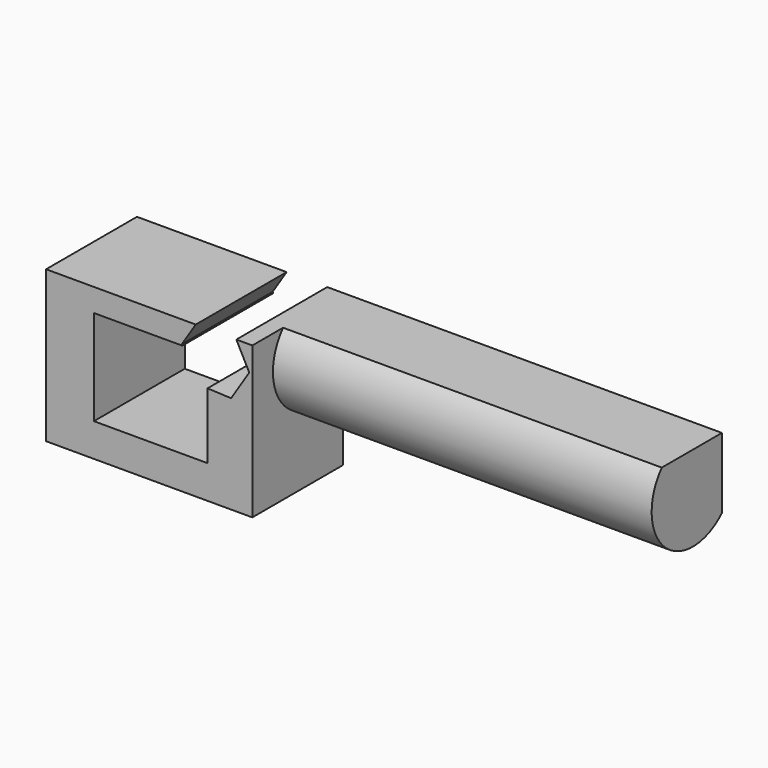
from build123d import *

# Parameters (mm, degrees)
F0_W     = 138.3417099714
F0_H     = 101.5456728637
F1_DEPTH = 76.2
F2_W     = 76.2257091701
F2_H     = 63.8742726296
F3_DEPTH = 101.6
F5_DEPTH = 254
F7_DEPTH = 101.6


with BuildPart() as f1:
    # F0 (on Front) → F1 (new body)
    with BuildSketch(Plane.XZ):
        with Locations((0.7131025195, -0.7131006569)):
            Rectangle(F0_W, F0_H)
    extrude(amount=F1_DEPTH)

    # F2 (on face) → F3 (cut)
    with BuildSketch(Plane.XZ.offset(76.2)):
        with Locations((1.7188172787, 2.7152718976)):
            Rectangle(F2_W, F2_H)
    extrude(amount=-F3_DEPTH, mode=Mode.SUBTRACT)

    # F4 (on face) → F5 (join)
    with BuildSketch(Plane.YZ.offset(69.8839575052)):
        with BuildLine():
            Line((0, 50.059735775), (-50.4431385903, 50.059735775))
            ThreePointArc((-50.4431385903, 50.059735775), (-47.9958991329, 2.1220411863), (0, 2.7586021562))
            Line((0, 2.7586021562), (0, 50.059735775))
        make_face()
    extrude(amount=F5_DEPTH)

    # F6 (on face) → F7 (cut)
    with BuildSketch(Plane.XZ.offset(76.2)):
        Polygon((31.9183138803, 50.059735775), (59.1486387648, 50.059735775), (57.3735188693, 53.4748122682), (34.7362639383, 54.4770613606), align=None)
        Polygon((55.6375725195, 14.2659365838), (67.8241731599, 33.3692498798), (59.1486387648, 50.059735775), (31.9183138803, 50.059735775), (22.5496632978, 35.3737480645), (22.9246079661, 34.6524082124), (39.8316718638, 34.6524082124), (39.8316718638, 14.9657321038), align=None)
    extrude(amount=-F7_DEPTH, mode=Mode.SUBTRACT)


solid = f1.part
